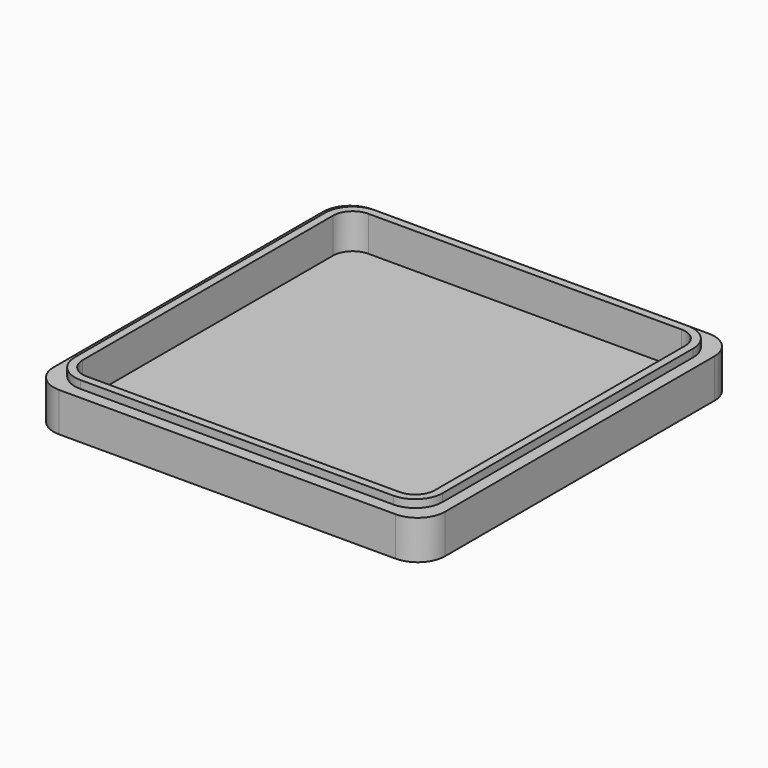
from build123d import *

# Parameters (mm, degrees)
BOX006_W     = 90
BOX006_H     = 90
BOX006_DEPTH = 10
FILLET008_R  = 5
BOX007_W     = 100
BOX007_H     = 100
BOX007_DEPTH = 10
FILLET007_R  = 7
BOX008_W     = 94
BOX008_H     = 94
BOX008_DEPTH = 2
FILLET006_R  = 7


with BuildPart() as fillet008:
    # Box006 → Box006 (new body)
    with BuildSketch(Plane(origin=(5, 5, 3), x_dir=(1, 0, 0), z_dir=(0, 0, 1))):
        with Locations((45, 45)):
            Rectangle(BOX006_W, BOX006_H)
    extrude(amount=BOX006_DEPTH)

    # Fillet008
    fillet008_edges = [fillet008.edges().sort_by_distance(p)[0] for p in [
        (5, 5, 8),
        (5, 95, 8),
        (95, 5, 8),
        (95, 95, 8),
    ]]
    fillet(fillet008_edges, radius=FILLET008_R)


with BuildPart() as body_with_fillets003:
    # Box007 → Box007 (new body)
    with BuildSketch(Plane.XY):
        with Locations((50, 50)):
            Rectangle(BOX007_W, BOX007_H)
    extrude(amount=BOX007_DEPTH)

    # Fillet007
    fillet007_edges = [body_with_fillets003.edges().sort_by_distance(p)[0] for p in [
        (0, 0, 5),
        (0, 100, 5),
        (100, 0, 5),
        (100, 100, 5),
    ]]
    fillet(fillet007_edges, radius=FILLET007_R)


with BuildPart() as wet_palette:
    # Box008 → Box008 (new body)
    with BuildSketch(Plane(origin=(3, 3, 10), x_dir=(1, 0, 0), z_dir=(0, 0, 1))):
        with Locations((47, 47)):
            Rectangle(BOX008_W, BOX008_H)
    extrude(amount=BOX008_DEPTH)

    # Fillet006
    fillet006_edges = [wet_palette.edges().sort_by_distance(p)[0] for p in [
        (3, 3, 11),
        (3, 97, 11),
        (97, 3, 11),
        (97, 97, 11),
    ]]
    fillet(fillet006_edges, radius=FILLET006_R)

    # Fusion003: union Body with fillets003
    add(body_with_fillets003.part)

    # Cut002: cut Fillet008
    add(fillet008.part, mode=Mode.SUBTRACT)


with BuildPart() as wet_palette_1:
    # Cut002 placement: moved
    add(wet_palette.part.moved(Location((-110, 0, 0))))


solid = wet_palette_1.part
